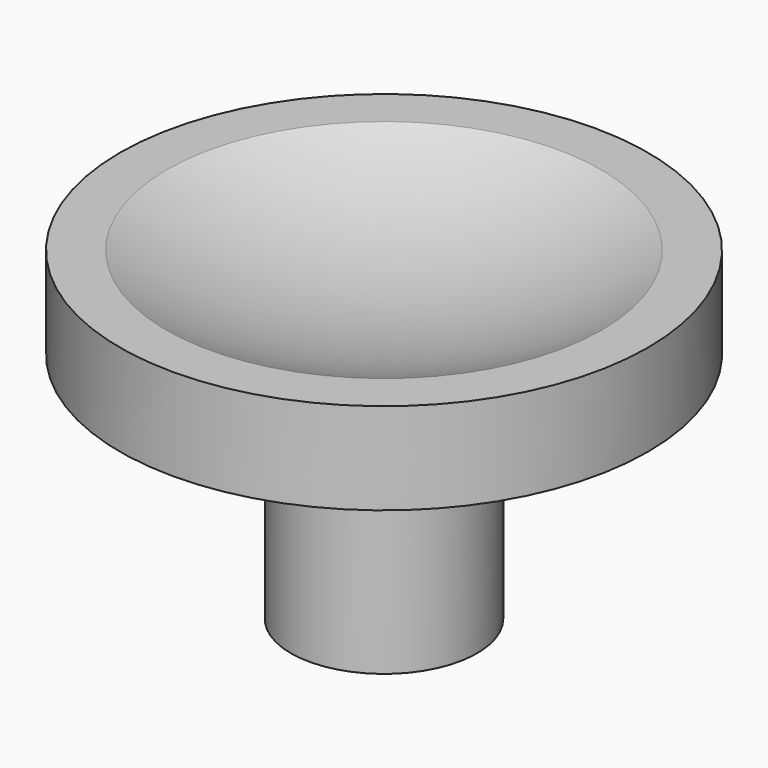
from build123d import *


with BuildPart() as f1:
    # F0 (on Front) → F1 (revolve)
    with BuildSketch(Plane.XZ):
        with BuildLine():
            Line((-3, 7.5), (-3, 0))
            Line((-3, 0), (-2.5, 0))
            Line((-2.5, 0), (-2.5, 7.5))
            Line((-2.5, 7.5), (0, 7.5))
            Line((0, 7.5), (0, 8.867949))
            ThreePointArc((0, 8.867949), (-3.588595, 9.269139), (-7, 10.452899))
            Line((-7, 10.452899), (-8.5, 10.452899))
            Line((-8.5, 10.452899), (-8.5, 7.5))
            Line((-8.5, 7.5), (-3, 7.5))
        make_face()
    revolve(axis=Axis((0, 0, 8.183975), (0, 0, -1)))


solid = f1.part
